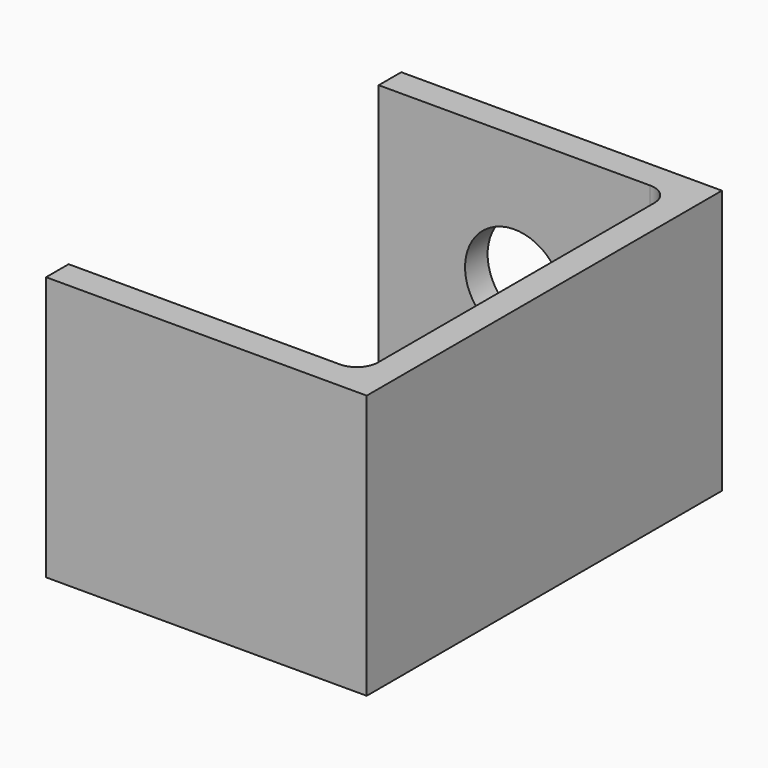
from build123d import *

# Parameters (mm, degrees)
F1_DEPTH = 19.05
F2_R     = 3.556
F3_DEPTH = 2.032


with BuildPart() as f1:
    # F0 (on Top) → F1 (new body)
    with BuildSketch(Plane.XY):
        with BuildLine():
            Line((-19.791535, 16.155853), (-19.791535, 14.123853))
            Line((-19.791535, 14.123853), (-0.233535, 14.123853))
            ThreePointArc((-0.233535, 14.123853), (0.844095, 13.677483), (1.290465, 12.599853))
            Line((1.290465, 12.599853), (1.290465, -12.292147))
            ThreePointArc((1.290465, -12.292147), (0.844095, -13.369778), (-0.233535, -13.816147))
            Line((-0.233535, -13.816147), (-19.791535, -13.816147))
            Line((-19.791535, -13.816147), (-19.791535, -15.848147))
            Line((-19.791535, -15.848147), (3.322465, -15.848147))
            Line((3.322465, -15.848147), (3.322465, 16.155853))
            Line((3.322465, 16.155853), (-19.791535, 16.155853))
        make_face()
    extrude(amount=F1_DEPTH)

    # F2 (on face) → F3 (cut, through all)
    with BuildSketch(Plane.XZ.offset(-14.123853)):
        with Locations((-10.012535, 9.525)):
            Circle(F2_R)
    extrude(amount=-F3_DEPTH, mode=Mode.SUBTRACT)


solid = f1.part
